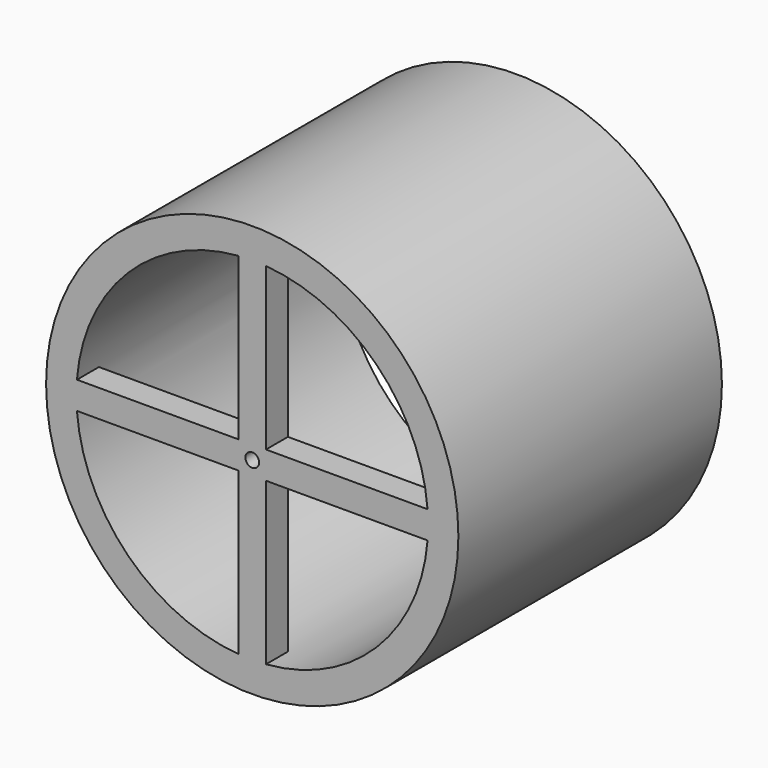
from build123d import *

# Parameters (mm, degrees)
F0_R     = 190.75
F0_R_2   = 162.7125
F1_DEPTH = 304.8
F3_DEPTH = 25.4
F5_DEPTH = 25.4
F6_R     = 6.35
F7_DEPTH = 382


with BuildPart() as f1:
    # F0 (on Front) → F1 (new body)
    with BuildSketch(Plane.XZ):
        Circle(F0_R)
        Circle(F0_R_2, mode=Mode.SUBTRACT)
    extrude(amount=F1_DEPTH)

    # F2 (on face) → F3 (join)
    with BuildSketch(Plane.XZ.offset(304.8)):
        with BuildLine():
            ThreePointArc((12.7, 162.216114), (0, 162.7125), (-12.7, 162.216114))
            Line((-12.7, 162.216114), (-12.7, 12.7))
            Line((-12.7, 12.7), (-12.7, -12.7))
            Line((-12.7, -12.7), (-12.7, -162.216114))
            ThreePointArc((-12.7, -162.216114), (0, -162.7125), (12.7, -162.216114))
            Line((12.7, -162.216114), (12.7, -12.7))
            Line((12.7, -12.7), (12.7, 12.7))
            Line((12.7, 12.7), (12.7, 162.216114))
        make_face()
        with BuildLine():
            Line((-12.7, -12.7), (-12.7, 12.7))
            Line((-12.7, 12.7), (-162.216114, 12.7))
            ThreePointArc((-162.216114, 12.7), (-162.7125, 0), (-162.216114, -12.7))
            Line((-162.216114, -12.7), (-12.7, -12.7))
        make_face()
        with BuildLine():
            Line((162.216114, 12.7), (12.7, 12.7))
            Line((12.7, 12.7), (12.7, -12.7))
            Line((12.7, -12.7), (162.216114, -12.7))
            ThreePointArc((162.216114, -12.7), (162.7125, 0), (162.216114, 12.7))
        make_face()
        with BuildLine():
            Line((-12.7, -12.7), (-12.7, 12.7))
            Line((-12.7, 12.7), (-162.216114, 12.7))
            ThreePointArc((-162.216114, 12.7), (-162.7125, 0), (-162.216114, -12.7))
            Line((-162.216114, -12.7), (-12.7, -12.7))
        make_face()
        with BuildLine():
            Line((162.216114, 12.7), (12.7, 12.7))
            Line((12.7, 12.7), (12.7, -12.7))
            Line((12.7, -12.7), (162.216114, -12.7))
            ThreePointArc((162.216114, -12.7), (162.588356, -6.354849), (162.7125, 0))
            ThreePointArc((162.7125, 0), (162.588356, 6.354849), (162.216114, 12.7))
        make_face()
        with BuildLine():
            ThreePointArc((12.7, 162.216114), (0, 162.7125), (-12.7, 162.216114))
            Line((-12.7, 162.216114), (-12.7, 12.7))
            Line((-12.7, 12.7), (-12.7, -12.7))
            Line((-12.7, -12.7), (-12.7, -162.216114))
            ThreePointArc((-12.7, -162.216114), (0, -162.7125), (12.7, -162.216114))
            Line((12.7, -162.216114), (12.7, -12.7))
            Line((12.7, -12.7), (12.7, 12.7))
            Line((12.7, 12.7), (12.7, 162.216114))
        make_face()
    extrude(amount=-F3_DEPTH)

    # F4 (on face) → F5 (join)
    with BuildSketch(Plane(origin=(0, 0, 0), x_dir=(-1, 0, 0), z_dir=(0, 1, 0))):
        with BuildLine():
            Line((-12.7, 162.216114), (-12.7, 12.7))
            Line((-12.7, 12.7), (-162.216114, 12.7))
            ThreePointArc((-162.216114, 12.7), (-162.7125, 0), (-162.216114, -12.7))
            Line((-162.216114, -12.7), (-12.7, -12.7))
            Line((-12.7, -12.7), (-12.7, -162.216114))
            ThreePointArc((-12.7, -162.216114), (0, -162.7125), (12.7, -162.216114))
            Line((12.7, -162.216114), (12.7, -12.7))
            Line((12.7, -12.7), (162.216114, -12.7))
            ThreePointArc((162.216114, -12.7), (162.588356, -6.354849), (162.7125, 0))
            ThreePointArc((162.7125, 0), (162.588356, 6.354849), (162.216114, 12.7))
            Line((162.216114, 12.7), (12.7, 12.7))
            Line((12.7, 12.7), (12.7, 162.216114))
            ThreePointArc((12.7, 162.216114), (0, 162.7125), (-12.7, 162.216114))
        make_face()
    extrude(amount=-F5_DEPTH)

    # F6 (on face) → F7 (cut)
    with BuildSketch(Plane(origin=(0, 0, 0), x_dir=(-1, 0, 0), z_dir=(0, 1, 0))):
        Circle(F6_R)
    extrude(amount=-F7_DEPTH, mode=Mode.SUBTRACT)


solid = f1.part
